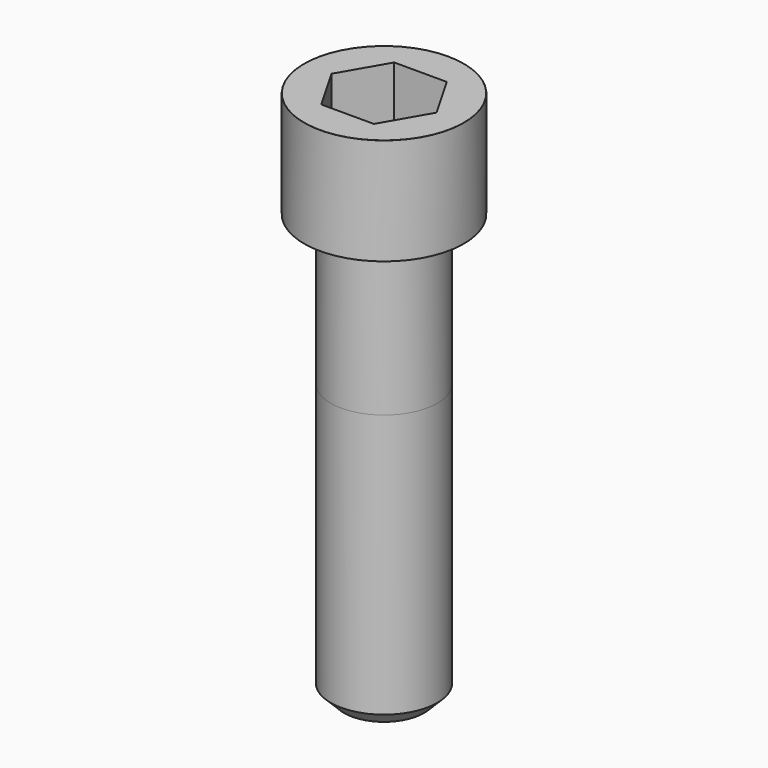
from build123d import *

# Parameters (mm, degrees)
POCKET_DEPTH = 17.1


with BuildPart() as part:
    # Sketch → Revolve (revolve)
    with BuildSketch(Plane.YZ):
        with BuildLine():
            Line((9.999, 0), (15, 0))
            Line((15, 0), (15, 19.97229))
            ThreePointArc((15, 19.97229), (14.991884, 19.991884), (14.97229, 20))
            Line((14.97229, 20), (0, 20))
            Line((0, -80), (0, 20))
            Line((7.5, -80), (0, -80))
            Line((10, -77.5), (7.5, -80))
            Line((10, -28), (10, -77.5))
            Line((9.999, 0), (10, -28))
        make_face()
    revolve(axis=Axis((0, 0, 0), (0, 0, 1)))

    # Sketch001 → Pocket (cut)
    with BuildSketch(Plane.XY.offset(20)):
        Polygon((9.87269, 0), (4.936345, 8.55), (-4.936345, 8.55), (-9.87269, 0), (-4.936345, -8.55), (4.936345, -8.55), align=None)
    extrude(amount=-POCKET_DEPTH, mode=Mode.SUBTRACT)


solid = part.part
